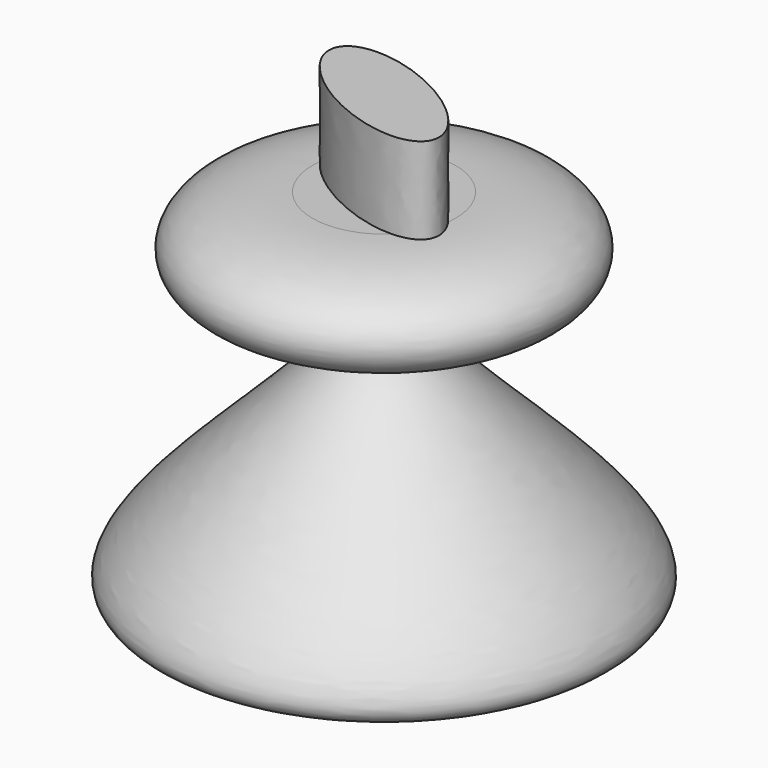
from build123d import *

# Parameters (mm, degrees)
F3_DEPTH = 25.4


with BuildPart() as f1:
    # F0 (on Front) → F1 (revolve)
    with BuildSketch(Plane.XZ):
        with BuildLine():
            Line((37.5113493801, -20.1865747863), (37.5113493801, 64.4165016711))
            Line((37.5113493801, 64.4165016711), (16.4838116616, 64.4165016711))
            add(Edge.make_bspline(
                [(16.4838116616, 64.4165016711), (-16.2375234067, 64.4165016711), (-24.0665132898, 31.2019405543), (64.3461882024, 49.7303719571), (-76.3544730992, -55.5458312182), (8.5496655645, -40.2868741895), (37.5113493801, -20.1865747863)],
                knots=[0, 0, 0, 0, 0.1981501651, 0.4047914518, 0.7213316456, 1, 1, 1, 1], degree=3))
        make_face()
    revolve(axis=Axis((37.5113493801, 0, 13.606633991), (0, 0, -1)))

    # F2 (on face) → F3 (join)
    with BuildSketch(Plane.XY.offset(64.4165016711)):
        with BuildLine():
            add(Edge.make_bspline(
                [(14.6769266576, 11.4763341844), (5.9375264494, -5.9124204029), (44.5588606372, -14.4325443859), (83.1801948251, -22.9526683688), (53.2982608454, 2.9562102015), (23.4163268657, 28.8650887717), (14.6769266576, 11.4763341844)],
                knots=[0, 0, 0, 2.0943951024, 2.0943951024, 4.1887902048, 4.1887902048, 6.2831853072, 6.2831853072, 6.2831853072], degree=2, weights=[1, 0.5, 1, 0.5, 1, 0.5, 1]))
        make_face()
    extrude(amount=F3_DEPTH)


solid = f1.part
